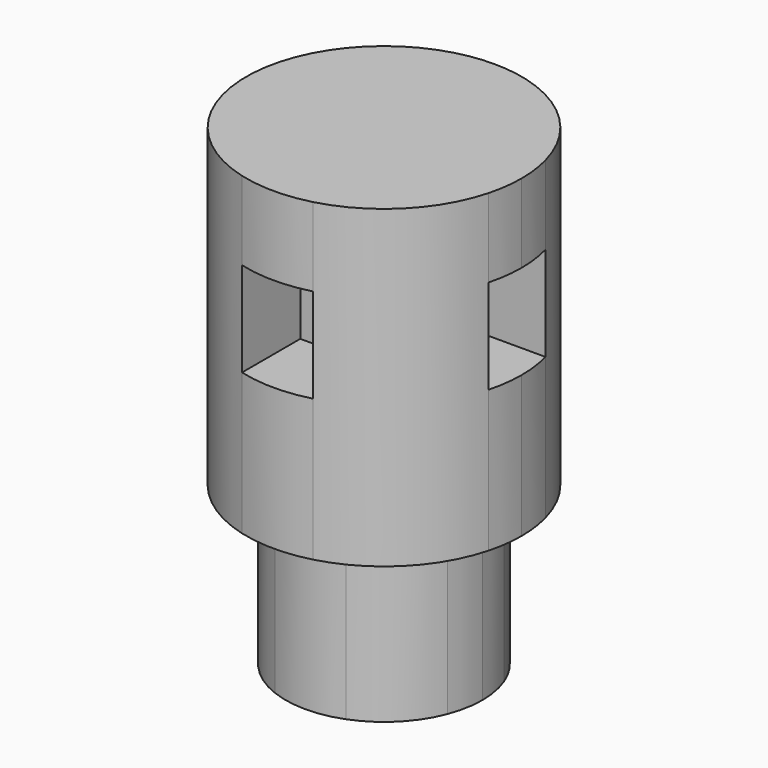
from build123d import *

# Parameters (mm, degrees)
F1_DEPTH = 25.4
F2_START = 11.43
F2_DEPTH = 7.62
F3_DEPTH = 12.7


with BuildPart() as f1:
    # F0 (on Top) → F1 (new body)
    with BuildSketch(Plane.XY):
        with BuildLine():
            ThreePointArc((-7.4012664662, 2.8679541395), (-5.6126600757, 5.6126600757), (-2.8679541395, 7.4012664662))
            Line((-2.8679541395, 7.4012664662), (-2.8679541395, 10.7360372253))
            ThreePointArc((-2.8679541395, 10.7360372253), (-7.8577241059, 7.8577241059), (-10.7360372253, 2.8679541395))
            Line((-10.7360372253, 2.8679541395), (-7.4012664662, 2.8679541395))
        make_face()
        with BuildLine():
            ThreePointArc((2.8679541395, 7.4012664662), (5.6126600757, 5.6126600757), (7.4012664662, 2.8679541395))
            Line((7.4012664662, 2.8679541395), (10.7360372253, 2.8679541395))
            ThreePointArc((10.7360372253, 2.8679541395), (7.8577241059, 7.8577241059), (2.8679541395, 10.7360372253))
            Line((2.8679541395, 10.7360372253), (2.8679541395, 7.4012664662))
        make_face()
        with BuildLine():
            Line((10.7360372253, -2.8679541395), (7.4012664662, -2.8679541395))
            ThreePointArc((7.4012664662, -2.8679541395), (5.6126600757, -5.6126600757), (2.8679541395, -7.4012664662))
            Line((2.8679541395, -7.4012664662), (2.8679541395, -10.7360372253))
            ThreePointArc((2.8679541395, -10.7360372253), (7.8577241059, -7.8577241059), (10.7360372253, -2.8679541395))
        make_face()
        with BuildLine():
            Line((-2.8679541395, -10.7360372253), (-2.8679541395, -7.4012664662))
            ThreePointArc((-2.8679541395, -7.4012664662), (-5.6126600757, -5.6126600757), (-7.4012664662, -2.8679541395))
            Line((-7.4012664662, -2.8679541395), (-10.7360372253, -2.8679541395))
            ThreePointArc((-10.7360372253, -2.8679541395), (-7.8577241059, -7.8577241059), (-2.8679541395, -10.7360372253))
        make_face()
        with BuildLine():
            ThreePointArc((-10.7360372253, 2.8679541395), (-11.1125, 0), (-10.7360372253, -2.8679541395))
            Line((-10.7360372253, -2.8679541395), (-10.7360372253, 2.8679541395))
        make_face()
        with BuildLine():
            Line((-10.7360372253, -2.8679541395), (-7.4012664662, -2.8679541395))
            ThreePointArc((-7.4012664662, -2.8679541395), (-7.9375, 0), (-7.4012664662, 2.8679541395))
            Line((-7.4012664662, 2.8679541395), (-10.7360372253, 2.8679541395))
            Line((-10.7360372253, 2.8679541395), (-10.7360372253, -2.8679541395))
        make_face()
        with BuildLine():
            ThreePointArc((-2.8679541395, 7.4012664662), (-1.458827213, 7.8022900108), (0, 7.9375))
            Line((0, 7.9375), (0, 10.7360372253))
            Line((0, 10.7360372253), (-2.8679541395, 10.7360372253))
            Line((-2.8679541395, 10.7360372253), (-2.8679541395, 7.4012664662))
        make_face()
        with BuildLine():
            ThreePointArc((0, 7.9375), (1.458827213, 7.8022900108), (2.8679541395, 7.4012664662))
            Line((2.8679541395, 7.4012664662), (2.8679541395, 10.7360372253))
            Line((2.8679541395, 10.7360372253), (0, 10.7360372253))
            Line((0, 10.7360372253), (0, 7.9375))
        make_face()
        with BuildLine():
            Line((0, 10.7360372253), (2.8679541395, 10.7360372253))
            ThreePointArc((2.8679541395, 10.7360372253), (1.4462784282, 11.0179823452), (0, 11.1125))
            Line((0, 11.1125), (0, 10.7360372253))
        make_face()
        with BuildLine():
            Line((-2.8679541395, 10.7360372253), (0, 10.7360372253))
            Line((0, 10.7360372253), (0, 11.1125))
            ThreePointArc((0, 11.1125), (-1.4462784282, 11.0179823452), (-2.8679541395, 10.7360372253))
        make_face()
        with BuildLine():
            ThreePointArc((7.4012664662, 2.8679541395), (7.8022900108, 1.458827213), (7.9375, 0))
            ThreePointArc((7.9375, 0), (7.8022900108, -1.458827213), (7.4012664662, -2.8679541395))
            Line((7.4012664662, -2.8679541395), (10.7360372253, -2.8679541395))
            Line((10.7360372253, -2.8679541395), (10.7360372253, 2.8679541395))
            Line((10.7360372253, 2.8679541395), (7.4012664662, 2.8679541395))
        make_face()
        with BuildLine():
            ThreePointArc((11.1125, 0), (11.0179823452, 1.4462784282), (10.7360372253, 2.8679541395))
            Line((10.7360372253, 2.8679541395), (10.7360372253, -2.8679541395))
            ThreePointArc((10.7360372253, -2.8679541395), (11.0179823452, -1.4462784282), (11.1125, 0))
        make_face()
        with BuildLine():
            Line((2.8679541395, -10.7360372253), (2.8679541395, -7.4012664662))
            ThreePointArc((2.8679541395, -7.4012664662), (0, -7.9375), (-2.8679541395, -7.4012664662))
            Line((-2.8679541395, -7.4012664662), (-2.8679541395, -10.7360372253))
            Line((-2.8679541395, -10.7360372253), (2.8679541395, -10.7360372253))
        make_face()
        with BuildLine():
            ThreePointArc((-2.8679541395, -10.7360372253), (0, -11.1125), (2.8679541395, -10.7360372253))
            Line((2.8679541395, -10.7360372253), (-2.8679541395, -10.7360372253))
        make_face()
        with BuildLine():
            Line((4.8612664662, 2.8679541395), (7.4012664662, 2.8679541395))
            ThreePointArc((7.4012664662, 2.8679541395), (5.6126600757, 5.6126600757), (2.8679541395, 7.4012664662))
            Line((2.8679541395, 7.4012664662), (2.8679541395, 4.8612664662))
            Line((2.8679541395, 4.8612664662), (0, 4.8612664662))
            Line((0, 4.8612664662), (-2.8679541395, 4.8612664662))
            Line((-2.8679541395, 4.8612664662), (-2.8679541395, 7.4012664662))
            ThreePointArc((-2.8679541395, 7.4012664662), (-5.6126600757, 5.6126600757), (-7.4012664662, 2.8679541395))
            Line((-7.4012664662, 2.8679541395), (-4.8612664662, 2.8679541395))
            Line((-4.8612664662, 2.8679541395), (-4.8612664662, -2.8679541395))
            Line((-4.8612664662, -2.8679541395), (-7.4012664662, -2.8679541395))
            ThreePointArc((-7.4012664662, -2.8679541395), (-5.6126600757, -5.6126600757), (-2.8679541395, -7.4012664662))
            Line((-2.8679541395, -7.4012664662), (-2.8679541395, -4.8612664662))
            Line((-2.8679541395, -4.8612664662), (2.8679541395, -4.8612664662))
            Line((2.8679541395, -4.8612664662), (2.8679541395, -7.4012664662))
            ThreePointArc((2.8679541395, -7.4012664662), (5.6126600757, -5.6126600757), (7.4012664662, -2.8679541395))
            Line((7.4012664662, -2.8679541395), (4.8612664662, -2.8679541395))
            Line((4.8612664662, -2.8679541395), (4.8612664662, 2.8679541395))
        make_face()
        with BuildLine():
            ThreePointArc((7.4012664662, -2.8679541395), (7.8022900108, -1.458827213), (7.9375, 0))
            ThreePointArc((7.9375, 0), (7.8022900108, 1.458827213), (7.4012664662, 2.8679541395))
            Line((7.4012664662, 2.8679541395), (4.8612664662, 2.8679541395))
            Line((4.8612664662, 2.8679541395), (4.8612664662, -2.8679541395))
            Line((4.8612664662, -2.8679541395), (7.4012664662, -2.8679541395))
        make_face()
        with BuildLine():
            Line((0, 4.8612664662), (0, 7.9375))
            ThreePointArc((0, 7.9375), (-1.458827213, 7.8022900108), (-2.8679541395, 7.4012664662))
            Line((-2.8679541395, 7.4012664662), (-2.8679541395, 4.8612664662))
            Line((-2.8679541395, 4.8612664662), (0, 4.8612664662))
        make_face()
        with BuildLine():
            ThreePointArc((-7.4012664662, 2.8679541395), (-7.9375, 0), (-7.4012664662, -2.8679541395))
            Line((-7.4012664662, -2.8679541395), (-4.8612664662, -2.8679541395))
            Line((-4.8612664662, -2.8679541395), (-4.8612664662, 2.8679541395))
            Line((-4.8612664662, 2.8679541395), (-7.4012664662, 2.8679541395))
        make_face()
        with BuildLine():
            Line((2.8679541395, 4.8612664662), (2.8679541395, 7.4012664662))
            ThreePointArc((2.8679541395, 7.4012664662), (1.458827213, 7.8022900108), (0, 7.9375))
            Line((0, 7.9375), (0, 4.8612664662))
            Line((0, 4.8612664662), (2.8679541395, 4.8612664662))
        make_face()
        with BuildLine():
            ThreePointArc((-2.8679541395, -7.4012664662), (0, -7.9375), (2.8679541395, -7.4012664662))
            Line((2.8679541395, -7.4012664662), (2.8679541395, -4.8612664662))
            Line((2.8679541395, -4.8612664662), (-2.8679541395, -4.8612664662))
            Line((-2.8679541395, -4.8612664662), (-2.8679541395, -7.4012664662))
        make_face()
    extrude(amount=F1_DEPTH)

    # F0 (on Top) → F2 (cut)
    with BuildSketch(Plane.XY.offset(F2_START)):
        with BuildLine():
            ThreePointArc((-2.8679541395, -10.7360372253), (0, -11.1125), (2.8679541395, -10.7360372253))
            Line((2.8679541395, -10.7360372253), (-2.8679541395, -10.7360372253))
        make_face()
        with BuildLine():
            Line((2.8679541395, -10.7360372253), (2.8679541395, -7.4012664662))
            ThreePointArc((2.8679541395, -7.4012664662), (0, -7.9375), (-2.8679541395, -7.4012664662))
            Line((-2.8679541395, -7.4012664662), (-2.8679541395, -10.7360372253))
            Line((-2.8679541395, -10.7360372253), (2.8679541395, -10.7360372253))
        make_face()
        with BuildLine():
            Line((-10.7360372253, -2.8679541395), (-7.4012664662, -2.8679541395))
            ThreePointArc((-7.4012664662, -2.8679541395), (-7.9375, 0), (-7.4012664662, 2.8679541395))
            Line((-7.4012664662, 2.8679541395), (-10.7360372253, 2.8679541395))
            Line((-10.7360372253, 2.8679541395), (-10.7360372253, -2.8679541395))
        make_face()
        with BuildLine():
            ThreePointArc((-10.7360372253, 2.8679541395), (-11.1125, 0), (-10.7360372253, -2.8679541395))
            Line((-10.7360372253, -2.8679541395), (-10.7360372253, 2.8679541395))
        make_face()
        with BuildLine():
            ThreePointArc((7.4012664662, 2.8679541395), (7.8022900108, 1.458827213), (7.9375, 0))
            ThreePointArc((7.9375, 0), (7.8022900108, -1.458827213), (7.4012664662, -2.8679541395))
            Line((7.4012664662, -2.8679541395), (10.7360372253, -2.8679541395))
            Line((10.7360372253, -2.8679541395), (10.7360372253, 2.8679541395))
            Line((10.7360372253, 2.8679541395), (7.4012664662, 2.8679541395))
        make_face()
        with BuildLine():
            ThreePointArc((11.1125, 0), (11.0179823452, 1.4462784282), (10.7360372253, 2.8679541395))
            Line((10.7360372253, 2.8679541395), (10.7360372253, -2.8679541395))
            ThreePointArc((10.7360372253, -2.8679541395), (11.0179823452, -1.4462784282), (11.1125, 0))
        make_face()
        with BuildLine():
            ThreePointArc((0, 7.9375), (1.458827213, 7.8022900108), (2.8679541395, 7.4012664662))
            Line((2.8679541395, 7.4012664662), (2.8679541395, 10.7360372253))
            Line((2.8679541395, 10.7360372253), (0, 10.7360372253))
            Line((0, 10.7360372253), (0, 7.9375))
        make_face()
        with BuildLine():
            Line((0, 10.7360372253), (2.8679541395, 10.7360372253))
            ThreePointArc((2.8679541395, 10.7360372253), (1.4462784282, 11.0179823452), (0, 11.1125))
            Line((0, 11.1125), (0, 10.7360372253))
        make_face()
        with BuildLine():
            ThreePointArc((-2.8679541395, 7.4012664662), (-1.458827213, 7.8022900108), (0, 7.9375))
            Line((0, 7.9375), (0, 10.7360372253))
            Line((0, 10.7360372253), (-2.8679541395, 10.7360372253))
            Line((-2.8679541395, 10.7360372253), (-2.8679541395, 7.4012664662))
        make_face()
        with BuildLine():
            Line((-2.8679541395, 10.7360372253), (0, 10.7360372253))
            Line((0, 10.7360372253), (0, 11.1125))
            ThreePointArc((0, 11.1125), (-1.4462784282, 11.0179823452), (-2.8679541395, 10.7360372253))
        make_face()
        with BuildLine():
            ThreePointArc((-2.8679541395, -7.4012664662), (0, -7.9375), (2.8679541395, -7.4012664662))
            Line((2.8679541395, -7.4012664662), (2.8679541395, -4.8612664662))
            Line((2.8679541395, -4.8612664662), (-2.8679541395, -4.8612664662))
            Line((-2.8679541395, -4.8612664662), (-2.8679541395, -7.4012664662))
        make_face()
        with BuildLine():
            ThreePointArc((-7.4012664662, 2.8679541395), (-7.9375, 0), (-7.4012664662, -2.8679541395))
            Line((-7.4012664662, -2.8679541395), (-4.8612664662, -2.8679541395))
            Line((-4.8612664662, -2.8679541395), (-4.8612664662, 2.8679541395))
            Line((-4.8612664662, 2.8679541395), (-7.4012664662, 2.8679541395))
        make_face()
        with BuildLine():
            Line((0, 4.8612664662), (0, 7.9375))
            ThreePointArc((0, 7.9375), (-1.458827213, 7.8022900108), (-2.8679541395, 7.4012664662))
            Line((-2.8679541395, 7.4012664662), (-2.8679541395, 4.8612664662))
            Line((-2.8679541395, 4.8612664662), (0, 4.8612664662))
        make_face()
        with BuildLine():
            Line((2.8679541395, 4.8612664662), (2.8679541395, 7.4012664662))
            ThreePointArc((2.8679541395, 7.4012664662), (1.458827213, 7.8022900108), (0, 7.9375))
            Line((0, 7.9375), (0, 4.8612664662))
            Line((0, 4.8612664662), (2.8679541395, 4.8612664662))
        make_face()
        with BuildLine():
            ThreePointArc((7.4012664662, -2.8679541395), (7.8022900108, -1.458827213), (7.9375, 0))
            ThreePointArc((7.9375, 0), (7.8022900108, 1.458827213), (7.4012664662, 2.8679541395))
            Line((7.4012664662, 2.8679541395), (4.8612664662, 2.8679541395))
            Line((4.8612664662, 2.8679541395), (4.8612664662, -2.8679541395))
            Line((4.8612664662, -2.8679541395), (7.4012664662, -2.8679541395))
        make_face()
    extrude(amount=F2_DEPTH, mode=Mode.SUBTRACT)

    # F0 (on Top) → F3 (join)
    with BuildSketch(Plane.XY):
        with BuildLine():
            Line((4.8612664662, 2.8679541395), (7.4012664662, 2.8679541395))
            ThreePointArc((7.4012664662, 2.8679541395), (5.6126600757, 5.6126600757), (2.8679541395, 7.4012664662))
            Line((2.8679541395, 7.4012664662), (2.8679541395, 4.8612664662))
            Line((2.8679541395, 4.8612664662), (0, 4.8612664662))
            Line((0, 4.8612664662), (-2.8679541395, 4.8612664662))
            Line((-2.8679541395, 4.8612664662), (-2.8679541395, 7.4012664662))
            ThreePointArc((-2.8679541395, 7.4012664662), (-5.6126600757, 5.6126600757), (-7.4012664662, 2.8679541395))
            Line((-7.4012664662, 2.8679541395), (-4.8612664662, 2.8679541395))
            Line((-4.8612664662, 2.8679541395), (-4.8612664662, -2.8679541395))
            Line((-4.8612664662, -2.8679541395), (-7.4012664662, -2.8679541395))
            ThreePointArc((-7.4012664662, -2.8679541395), (-5.6126600757, -5.6126600757), (-2.8679541395, -7.4012664662))
            Line((-2.8679541395, -7.4012664662), (-2.8679541395, -4.8612664662))
            Line((-2.8679541395, -4.8612664662), (2.8679541395, -4.8612664662))
            Line((2.8679541395, -4.8612664662), (2.8679541395, -7.4012664662))
            ThreePointArc((2.8679541395, -7.4012664662), (5.6126600757, -5.6126600757), (7.4012664662, -2.8679541395))
            Line((7.4012664662, -2.8679541395), (4.8612664662, -2.8679541395))
            Line((4.8612664662, -2.8679541395), (4.8612664662, 2.8679541395))
        make_face()
        with BuildLine():
            ThreePointArc((-2.8679541395, -7.4012664662), (0, -7.9375), (2.8679541395, -7.4012664662))
            Line((2.8679541395, -7.4012664662), (2.8679541395, -4.8612664662))
            Line((2.8679541395, -4.8612664662), (-2.8679541395, -4.8612664662))
            Line((-2.8679541395, -4.8612664662), (-2.8679541395, -7.4012664662))
        make_face()
        with BuildLine():
            ThreePointArc((7.4012664662, -2.8679541395), (7.8022900108, -1.458827213), (7.9375, 0))
            ThreePointArc((7.9375, 0), (7.8022900108, 1.458827213), (7.4012664662, 2.8679541395))
            Line((7.4012664662, 2.8679541395), (4.8612664662, 2.8679541395))
            Line((4.8612664662, 2.8679541395), (4.8612664662, -2.8679541395))
            Line((4.8612664662, -2.8679541395), (7.4012664662, -2.8679541395))
        make_face()
        with BuildLine():
            Line((2.8679541395, 4.8612664662), (2.8679541395, 7.4012664662))
            ThreePointArc((2.8679541395, 7.4012664662), (1.458827213, 7.8022900108), (0, 7.9375))
            Line((0, 7.9375), (0, 4.8612664662))
            Line((0, 4.8612664662), (2.8679541395, 4.8612664662))
        make_face()
        with BuildLine():
            Line((0, 4.8612664662), (0, 7.9375))
            ThreePointArc((0, 7.9375), (-1.458827213, 7.8022900108), (-2.8679541395, 7.4012664662))
            Line((-2.8679541395, 7.4012664662), (-2.8679541395, 4.8612664662))
            Line((-2.8679541395, 4.8612664662), (0, 4.8612664662))
        make_face()
        with BuildLine():
            ThreePointArc((-7.4012664662, 2.8679541395), (-7.9375, 0), (-7.4012664662, -2.8679541395))
            Line((-7.4012664662, -2.8679541395), (-4.8612664662, -2.8679541395))
            Line((-4.8612664662, -2.8679541395), (-4.8612664662, 2.8679541395))
            Line((-4.8612664662, 2.8679541395), (-7.4012664662, 2.8679541395))
        make_face()
    extrude(amount=-F3_DEPTH)


solid = f1.part
